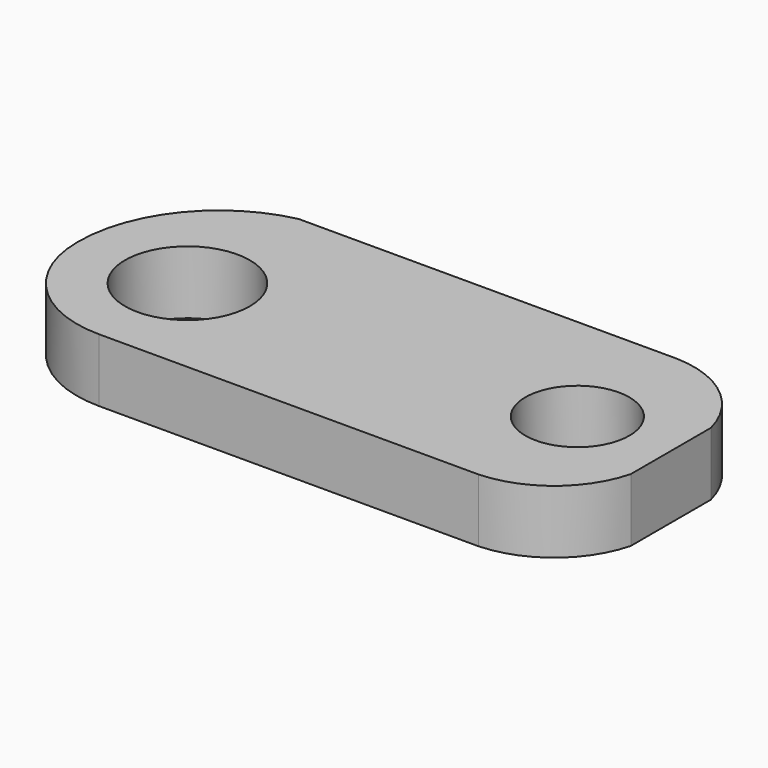
from build123d import *

# Parameters (mm, degrees)
F0_W     = 44.45
F0_H     = 19.05
F1_DEPTH = 4.826
F2_R     = 4.7625
F2_R_2   = 3.96875
F3_DEPTH = 4.827


with BuildPart() as f1:
    # F0 (on Top) → F1 (new body)
    with BuildSketch(Plane.XY):
        with Locations((22.225, 9.525)):
            Rectangle(F0_W, F0_H)
    extrude(amount=F1_DEPTH)

    # F2 (on face) → F3 (cut, through all)
    with BuildSketch(Plane.XY.offset(4.826)):
        with Locations((8.4328, 8.4328)):
            Circle(F2_R)
        with Locations((37.317358, 9.525)):
            Circle(F2_R_2)
        with BuildLine():
            ThreePointArc((0, 8.720729), (2.414919, 15.35609), (8.4328, 19.05))
            Line((8.4328, 19.05), (0, 19.05))
            Line((0, 19.05), (0, 8.720729))
        make_face()
        with BuildLine():
            Line((0, 0), (8.4328, 0))
            ThreePointArc((8.4328, 0), (2.46991, 2.46991), (0, 8.4328))
            Line((0, 8.4328), (0, 0))
        make_face()
        with BuildLine():
            Line((44.45, 0), (44.45, 5.701452))
            ThreePointArc((44.45, 5.701452), (41.863245, 1.686604), (37.394948, 0))
            Line((37.394948, 0), (44.45, 0))
        make_face()
        with BuildLine():
            ThreePointArc((37.317358, 19.05), (41.833689, 17.383714), (44.45, 13.342839))
            Line((44.45, 13.342839), (44.45, 19.05))
            Line((44.45, 19.05), (37.317358, 19.05))
        make_face()
    extrude(amount=-F3_DEPTH, mode=Mode.SUBTRACT)


solid = f1.part
